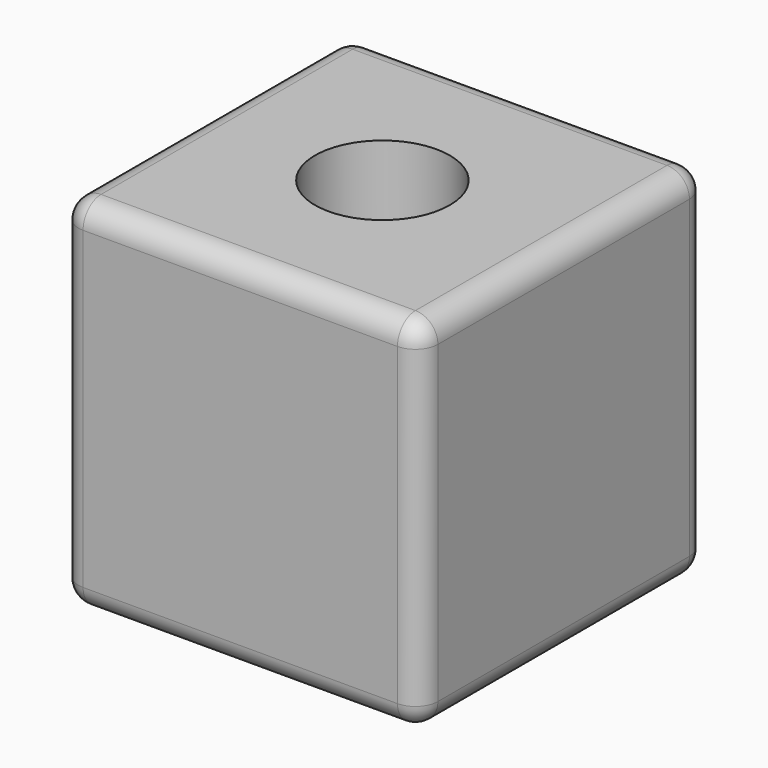
from build123d import *

# Parameters (mm, degrees)
F0_W     = 80
F0_H     = 80
F1_DEPTH = 80
F2_R     = 15
F3_DEPTH = 80.001
F4_R     = 5


with BuildPart() as f1:
    # F0 (on Top) → F1 (new body)
    with BuildSketch(Plane.XY):
        with Locations((-15.1688, -24.465202)):
            Rectangle(F0_W, F0_H)
    extrude(amount=F1_DEPTH)

    # F2 (on face) → F3 (cut, through all)
    with BuildSketch(Plane.XY.offset(80)):
        with Locations((-15.3, -24.750002)):
            Circle(F2_R)
    extrude(amount=-F3_DEPTH, mode=Mode.SUBTRACT)

    # F4
    f4_edges = [f1.edges().sort_by_distance(p)[0] for p in [
        (-15.1688, 15.534798, 80),
        (-55.1688, -24.465202, 80),
        (-15.1688, -64.465202, 80),
        (24.8312, -24.465202, 80),
        (24.8312, 15.534798, 40),
        (24.8312, -64.465202, 40),
        (24.8312, -24.465202, 0),
        (-55.1688, 15.534798, 40),
        (-55.1688, -64.465202, 40),
        (-55.1688, -24.465202, 0),
        (-15.1688, 15.534798, 0),
        (-15.1688, -64.465202, 0),
    ]]
    fillet(f4_edges, radius=F4_R)


solid = f1.part
